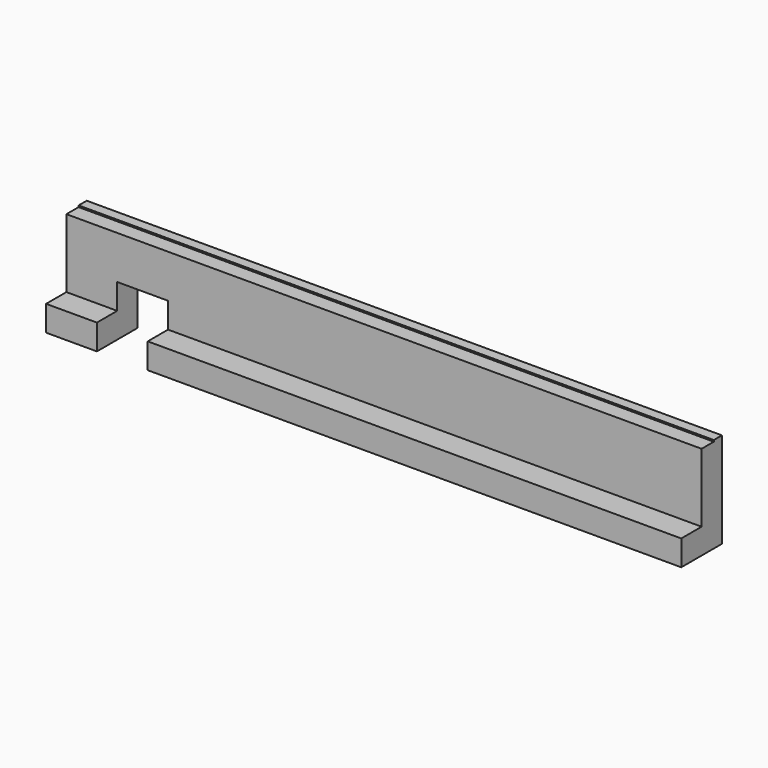
from build123d import *

# Parameters (mm, degrees)
BOX_W                   = 10
BOX_H                   = 10
BOX_DEPTH               = 10
EXTRUDE_DEPTH           = 125
LINK001_PLACEMENT_ANGLE = 270


with BuildPart() as cube:
    # Box → Box (new body)
    with BuildSketch(Plane(origin=(-52.5, -10, -18.8), x_dir=(1, 0, 0), z_dir=(0, 0, 1))):
        with Locations((5, 5)):
            Rectangle(BOX_W, BOX_H)
    extrude(amount=BOX_DEPTH)


with BuildPart() as cut:
    # Sketch001 → Extrude (new body)
    with BuildSketch(Plane.XZ):
        Polygon((-60.5, 0), (-60.5, -0.3), (-57.5, -0.3), (-57.5, -13.8), (-52.5, -13.8), (-52.5, -18.8), (-62.5, -18.8), (-62.5, 0), align=None)
    extrude(amount=EXTRUDE_DEPTH)


with BuildPart() as cut_1:
    # Link001 placement: moved
    add(cut.part.moved(Location((62.5, -62.5, 0))).rotate(Axis((62.5, -62.5, 0), (0, 0, 1)), LINK001_PLACEMENT_ANGLE))

    # Cut: cut Cube
    add(cube.part, mode=Mode.SUBTRACT)


solid = cut_1.part
